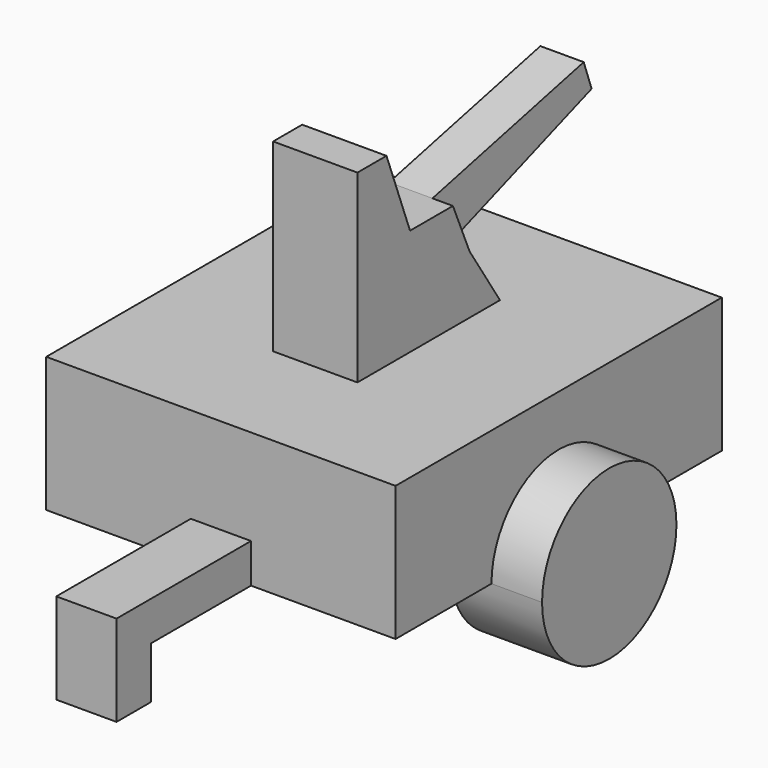
from build123d import *

# Parameters (mm, degrees)
F1_DEPTH = 36.83
F2_DEPTH = 47.498
F3_DEPTH = 28.194
F4_DEPTH = 8.89
F5_DEPTH = 4.572
F6_DEPTH = 6.35
F7_W     = 33.954457
F7_H     = 11.318151
F8_DEPTH = 12.7


with BuildPart() as f1:
    # F0 (on Right) → F1 (new body, symmetric)
    with BuildSketch(Plane.YZ):
        with BuildLine():
            Line((-18.119462, 14.21879), (-42.990837, 14.21879))
            Line((-42.990837, 14.21879), (-42.990837, -5.931014))
            Line((-42.990837, -5.931014), (-42.990837, -14.21879))
            Line((-42.990837, -14.21879), (-17.70777, -14.21879))
            ThreePointArc((-17.70777, -14.21879), (0, 3.48898), (17.70777, -14.21879))
            Line((17.70777, -14.21879), (42.990837, -14.21879))
            Line((42.990837, -14.21879), (42.990837, 14.21879))
            Line((42.990837, 14.21879), (19.459361, 14.21879))
            Line((19.459361, 14.21879), (-18.119462, 14.21879))
        make_face()
    extrude(amount=F1_DEPTH, both=True)

    # F0 (on Right) → F2 (join, symmetric)
    with BuildSketch(Plane.YZ):
        with BuildLine():
            ThreePointArc((17.70777, -14.21879), (0, 3.48898), (-17.70777, -14.21879))
            ThreePointArc((-17.70777, -14.21879), (0, -31.926559), (17.70777, -14.21879))
        make_face()
    extrude(amount=F2_DEPTH, both=True)

    # F0 (on Right) → F3 (cut, symmetric)
    with BuildSketch(Plane.YZ):
        with BuildLine():
            ThreePointArc((17.70777, -14.21879), (0, 3.48898), (-17.70777, -14.21879))
            ThreePointArc((-17.70777, -14.21879), (0, -31.926559), (17.70777, -14.21879))
        make_face()
    extrude(amount=F3_DEPTH, both=True, mode=Mode.SUBTRACT)

    # F0 (on Right) → F4 (join, symmetric)
    with BuildSketch(Plane.YZ):
        Polygon((-18.119462, 53.173751), (-18.119462, 14.21879), (19.459361, 14.21879), (11.432814, 26.540214), (7.054701, 36.755815), (-4.25543, 36.755815), (-10.457761, 53.173751), align=None)
    extrude(amount=F4_DEPTH, both=True)

    # F0 (on Right) → F5 (join, symmetric)
    with BuildSketch(Plane.YZ):
        Polygon((7.054701, 36.755815), (11.432814, 26.540214), (49.011637, 40.039402), (46.927817, 45.840306), align=None)
    extrude(amount=F5_DEPTH, both=True)

    # F0 (on Right) → F6 (join, symmetric)
    with BuildSketch(Plane.YZ):
        Polygon((-42.990837, -14.21879), (-42.990837, -5.931014), (-78.437544, -5.931014), (-78.437544, -14.21879), (-69.339758, -14.21879), align=None)
        Polygon((-69.339758, -31.358585), (-69.339758, -14.21879), (-78.437544, -14.21879), (-78.437544, -31.283986), align=None)
    extrude(amount=F6_DEPTH, both=True)

    # F7 (on Right) → F8 (cut, symmetric)
    with BuildSketch(Plane.YZ):
        with Locations((-71.897797, -30.766496)):
            Rectangle(F7_W, F7_H)
    extrude(amount=F8_DEPTH, both=True, mode=Mode.SUBTRACT)


solid = f1.part
